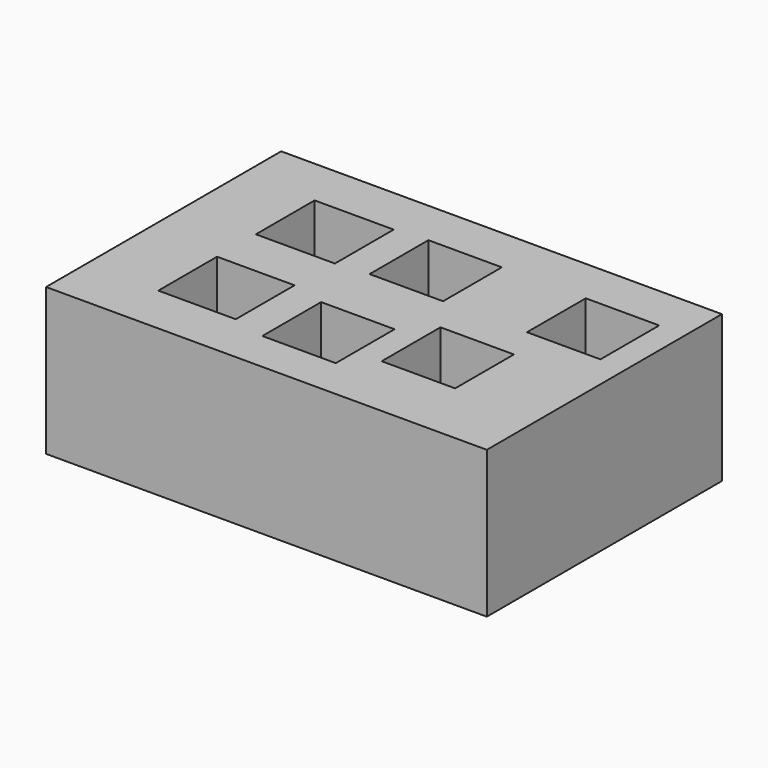
from build123d import *

# Parameters (mm, degrees)
F0_W     = 152.4
F0_H     = 101.6
F1_DEPTH = 50.8
F2_W     = 27.33261
F2_H     = 25.4
F2_W_2   = 25.4
F2_W_3   = 26.780436
F3_DEPTH = 38.1


with BuildPart() as f1:
    # F0 (on Top) → F1 (new body)
    with BuildSketch(Plane.XY):
        Rectangle(F0_W, F0_H)
    extrude(amount=-F1_DEPTH)

    # F2 (on Top) → F3 (cut)
    with BuildSketch(Plane.XY):
        with Locations((-37.547824, 21.336)):
            Rectangle(F2_W, F2_H)
        with Locations((0, 22.355477)):
            Rectangle(F2_W_2, F2_H)
        with Locations((54.408039, 22.355477)):
            Rectangle(F2_W_2, F2_H)
        with Locations((0, -24.005428)):
            Rectangle(F2_W_2, F2_H)
        with Locations((-37.823911, -20.828)):
            Rectangle(F2_W_3, F2_H)
        with Locations((34.372829, -15.391847)):
            Rectangle(F2_W_2, F2_H)
    extrude(amount=-F3_DEPTH, mode=Mode.SUBTRACT)


solid = f1.part
